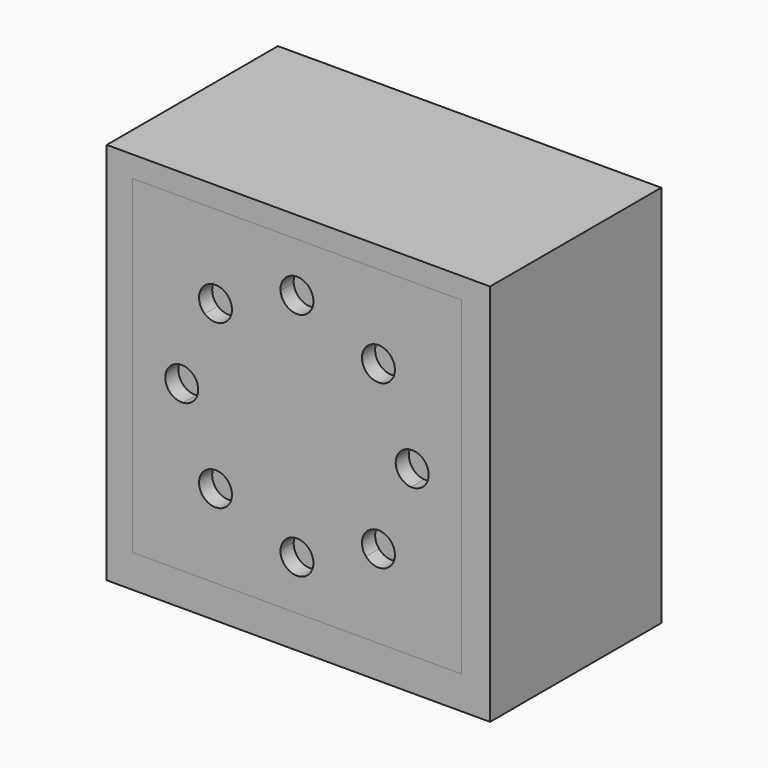
from build123d import *

# Parameters (mm, degrees)
F0_W          = 127
F0_H          = 127
F1_DEPTH      = 6.35
F3_R          = 63.6002819842
F3_R_2        = 6.35
F4_DEPTH      = 6.35
F5_W          = 147.884440772
F5_H          = 147.884440772
F5_W_2        = 127
F5_H_2        = 127
F6_DEPTH      = 76.2
F6_DEPTH_BACK = 6.35


with BuildPart() as f1:
    # F0 (on Front) → F1 (new body)
    with BuildSketch(Plane.XZ):
        Rectangle(F0_W, F0_H)
        with BuildLine():
            ThreePointArc((35.5888319955, 26.6315139862), (41.0664452201, 17.0102785686), (43.9964285714, 6.3337803056))
            ThreePointArc((43.9964285714, 6.3337803056), (48.7767956636, 4.6477240974), (50.8, 0))
            ThreePointArc((50.8, 0), (48.7767956636, -4.6477240974), (43.9964285714, -6.3337803056))
            ThreePointArc((43.9964285714, -6.3337803056), (41.0664452201, -17.0102785686), (35.5888319955, -26.6315139862))
            ThreePointArc((35.5888319955, -26.6315139862), (37.206941389, -28.7927522731), (37.7808964237, -31.4308964237))
            ThreePointArc((37.7808964237, -31.4308964237), (33.6497273684, -37.3806266058), (26.6315139862, -35.5888319955))
            ThreePointArc((26.6315139862, -35.5888319955), (17.0102785686, -41.0664452201), (6.3337803056, -43.9964285714))
            ThreePointArc((6.3337803056, -43.9964285714), (6.3459437809, -44.2230693282), (6.35, -44.45))
            ThreePointArc((6.35, -44.45), (-0.2269306718, -50.7959437809), (-6.3337803056, -43.9964285714))
            ThreePointArc((-6.3337803056, -43.9964285714), (-17.0102785686, -41.0664452201), (-26.6315139862, -35.5888319955))
            ThreePointArc((-26.6315139862, -35.5888319955), (-35.9210244843, -35.9210244843), (-35.5888319955, -26.6315139862))
            ThreePointArc((-35.5888319955, -26.6315139862), (-41.0664452201, -17.0102785686), (-43.9964285714, -6.3337803056))
            ThreePointArc((-43.9964285714, -6.3337803056), (-50.8, 0), (-43.9964285714, 6.3337803056))
            ThreePointArc((-43.9964285714, 6.3337803056), (-41.0664452201, 17.0102785686), (-35.5888319955, 26.6315139862))
            ThreePointArc((-35.5888319955, 26.6315139862), (-35.9210244843, 35.9210244843), (-26.6315139862, 35.5888319955))
            ThreePointArc((-26.6315139862, 35.5888319955), (-17.0102785686, 41.0664452201), (-6.3337803056, 43.9964285714))
            ThreePointArc((-6.3337803056, 43.9964285714), (-0.2269306718, 50.7959437809), (6.35, 44.45))
            ThreePointArc((6.35, 44.45), (6.3459437809, 44.2230693282), (6.3337803056, 43.9964285714))
            ThreePointArc((6.3337803056, 43.9964285714), (17.0102785686, 41.0664452201), (26.6315139862, 35.5888319955))
            ThreePointArc((26.6315139862, 35.5888319955), (33.6497273684, 37.3806266058), (37.7808964237, 31.4308964237))
            ThreePointArc((37.7808964237, 31.4308964237), (37.206941389, 28.7927522731), (35.5888319955, 26.6315139862))
        make_face(mode=Mode.SUBTRACT)
        with BuildLine():
            ThreePointArc((43.9964285714, -6.3337803056), (38.1, 0), (43.9964285714, 6.3337803056))
            ThreePointArc((43.9964285714, 6.3337803056), (41.0664452201, 17.0102785686), (35.5888319955, 26.6315139862))
            ThreePointArc((35.5888319955, 26.6315139862), (26.9407683632, 26.9407683632), (26.6315139862, 35.5888319955))
            ThreePointArc((26.6315139862, 35.5888319955), (17.0102785686, 41.0664452201), (6.3337803056, 43.9964285714))
            ThreePointArc((6.3337803056, 43.9964285714), (0, 38.1), (-6.3337803056, 43.9964285714))
            ThreePointArc((-6.3337803056, 43.9964285714), (-17.0102785686, 41.0664452201), (-26.6315139862, 35.5888319955))
            ThreePointArc((-26.6315139862, 35.5888319955), (-25.4811662417, 33.6497273684), (-25.0808964237, 31.4308964237))
            ThreePointArc((-25.0808964237, 31.4308964237), (-28.7927522731, 25.6548514585), (-35.5888319955, 26.6315139862))
            ThreePointArc((-35.5888319955, 26.6315139862), (-41.0664452201, 17.0102785686), (-43.9964285714, 6.3337803056))
            ThreePointArc((-43.9964285714, 6.3337803056), (-39.8022759026, 4.3267956636), (-38.1, 0))
            ThreePointArc((-38.1, 0), (-39.8022759026, -4.3267956636), (-43.9964285714, -6.3337803056))
            ThreePointArc((-43.9964285714, -6.3337803056), (-41.0664452201, -17.0102785686), (-35.5888319955, -26.6315139862))
            ThreePointArc((-35.5888319955, -26.6315139862), (-28.7927522731, -25.6548514585), (-25.0808964237, -31.4308964237))
            ThreePointArc((-25.0808964237, -31.4308964237), (-25.4811662417, -33.6497273684), (-26.6315139862, -35.5888319955))
            ThreePointArc((-26.6315139862, -35.5888319955), (-17.0102785686, -41.0664452201), (-6.3337803056, -43.9964285714))
            ThreePointArc((-6.3337803056, -43.9964285714), (0, -38.1), (6.3337803056, -43.9964285714))
            ThreePointArc((6.3337803056, -43.9964285714), (17.0102785686, -41.0664452201), (26.6315139862, -35.5888319955))
            ThreePointArc((26.6315139862, -35.5888319955), (26.9407683632, -26.9407683632), (35.5888319955, -26.6315139862))
            ThreePointArc((35.5888319955, -26.6315139862), (41.0664452201, -17.0102785686), (43.9964285714, -6.3337803056))
        make_face()
    extrude(amount=F1_DEPTH)


with BuildPart() as f4:
    # F3 (on offset) → F4 (new body)
    with BuildSketch(Plane.XZ.offset(-6.35)):
        Circle(F3_R)
        with Locations((-31.2465413238, -31.0621867478)):
            Circle(F3_R_2, mode=Mode.SUBTRACT)
    extrude(amount=-F4_DEPTH)


with BuildPart() as f6:
    # F5 (on Front) → F6 (new body, two sides)
    with BuildSketch(Plane.XZ) as f6_sk:
        with Locations((0.5592270837, -2.257779614)):
            Rectangle(F5_W, F5_H)
        Rectangle(F5_W_2, F5_H_2, mode=Mode.SUBTRACT)
    extrude(amount=-F6_DEPTH)
    extrude(f6_sk.sketch, amount=F6_DEPTH_BACK)


solid = Compound([f1.part, f4.part, f6.part])
